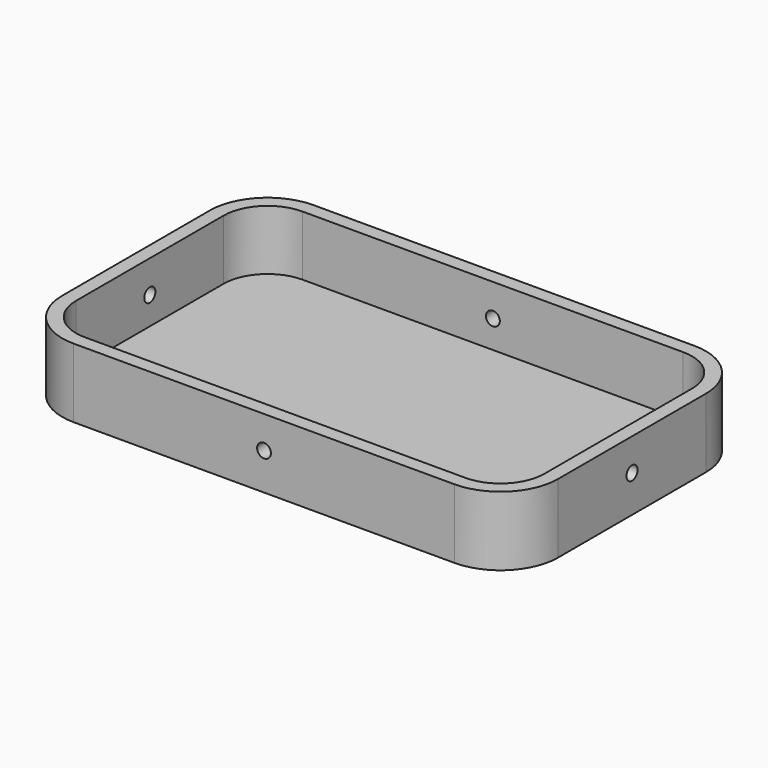
from build123d import *

# Parameters (mm, degrees)
PAD001_DEPTH       = 2
PAD003_DEPTH       = 15
SKETCH_R           = 1.5
POCKET_DEPTH       = 285.532619
POLARPATTERN_COUNT = 4


with BuildPart() as part:
    # Sketch001 → Pad001 (new body)
    with BuildSketch(Plane.XY):
        with BuildLine():
            Line((-53.75, 20), (-53.75, -20))
            ThreePointArc((-53.75, -20), (-50.088835, -28.838835), (-41.25, -32.5))
            Line((-41.25, -32.5), (41.25, -32.5))
            ThreePointArc((41.25, -32.5), (50.088835, -28.838835), (53.75, -20))
            Line((53.75, -20), (53.75, 20))
            ThreePointArc((53.75, 20), (50.088835, 28.838835), (41.25, 32.5))
            Line((41.25, 32.5), (-41.25, 32.5))
            ThreePointArc((-41.25, 32.5), (-50.088835, 28.838835), (-53.75, 20))
        make_face()
    extrude(amount=PAD001_DEPTH)

    # Sketch003 → Pad003 (join)
    with BuildSketch(Plane.XY):
        with BuildLine():
            Line((-41.25, 32.5), (41.25, 32.5))
            ThreePointArc((53.75, 20), (50.088835, 28.838835), (41.25, 32.5))
            Line((53.75, 20), (53.75, -20))
            ThreePointArc((41.25, -32.5), (50.088835, -28.838835), (53.75, -20))
            Line((41.25, -32.5), (-41.25, -32.5))
            ThreePointArc((-53.75, -20), (-50.088835, -28.838835), (-41.25, -32.5))
            Line((-53.75, -20), (-53.75, 20))
            ThreePointArc((-41.25, 32.5), (-50.088835, 28.838835), (-53.75, 20))
        make_face()
        with BuildLine():
            Line((-50.75, 20), (-50.75, -20))
            ThreePointArc((-50.75, -20), (-47.967514, -26.717514), (-41.25, -29.5))
            Line((-41.25, -29.5), (41.25, -29.5))
            ThreePointArc((41.25, -29.5), (47.967514, -26.717514), (50.75, -20))
            Line((50.75, -20), (50.75, 20))
            ThreePointArc((50.75, 20), (47.967514, 26.717514), (41.25, 29.5))
            Line((41.25, 29.5), (-41.25, 29.5))
            ThreePointArc((-41.25, 29.5), (-47.967514, 26.717514), (-50.75, 20))
        make_face(mode=Mode.SUBTRACT)
    extrude(amount=PAD003_DEPTH)

    # Sketch → Pocket (cut, through all)
    with BuildSketch(Plane.XZ):
        with Locations((0, 8)):
            Circle(SKETCH_R)
    pocket = extrude(amount=-POCKET_DEPTH, mode=Mode.SUBTRACT)

    # PolarPattern: Pocket ×4 about axis
    polarpattern_axis = Axis((0, 0, 0), (0, 0, 1))
    for i in range(1, POLARPATTERN_COUNT):
        add(pocket.rotate(polarpattern_axis, i * 360 / POLARPATTERN_COUNT), mode=Mode.SUBTRACT)


solid = part.part
